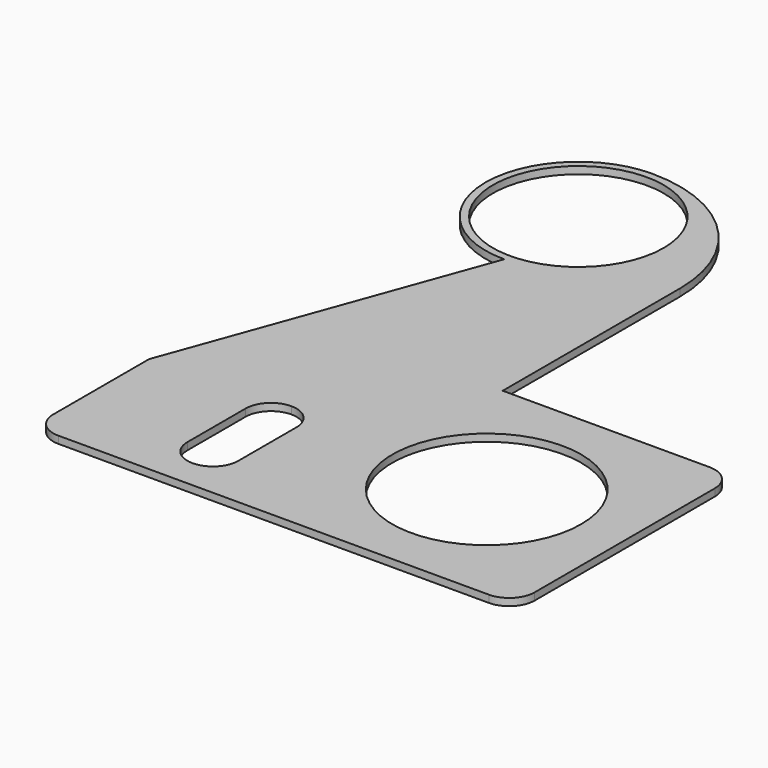
from build123d import *

# Parameters (mm, degrees)
F0_R     = 13
F0_R_2   = 11.75
F1_DEPTH = 1


with BuildPart() as f1:
    # F0 (on Top) → F1 (new body)
    with BuildSketch(Plane.XY):
        with BuildLine():
            ThreePointArc((-7, 66.5), (2.015611, 62.765611), (5.75, 53.75))
            ThreePointArc((5.75, 53.75), (2.015611, 44.734389), (-7, 41))
            Line((-7, 41), (-22.28675, -1))
            Line((-22.28675, -1), (-22.28675, -17.5))
            ThreePointArc((-22.28675, -17.5), (-21.261624, -19.974874), (-18.78675, -21))
            Line((-18.78675, -21), (40.5, -21))
            ThreePointArc((40.5, -21), (42.974874, -19.974874), (44, -17.5))
            Line((44, -17.5), (44, 13.5))
            ThreePointArc((44, 13.5), (42.974874, 15.974874), (40.5, 17))
            Line((40.5, 17), (12, 17))
            Line((12, 17), (12, 47.5))
            ThreePointArc((12, 47.5), (6.435029, 60.935029), (-7, 66.5))
        make_face()
        with BuildLine():
            ThreePointArc((-3.5, 0), (-1.025126, -1.025126), (0, -3.5))
            Line((0, -3.5), (0, -13.5))
            ThreePointArc((0, -13.5), (-1.025126, -15.974874), (-3.5, -17))
            ThreePointArc((-3.5, -17), (-5.974874, -15.974874), (-7, -13.5))
            Line((-7, -13.5), (-7, -3.5))
            ThreePointArc((-7, -3.5), (-5.974874, -1.025126), (-3.5, 0))
        make_face(mode=Mode.SUBTRACT)
        with Locations((25, -2)):
            Circle(F0_R, mode=Mode.SUBTRACT)
        with BuildLine():
            ThreePointArc((-7, 41), (2.015611, 44.734389), (5.75, 53.75))
            ThreePointArc((5.75, 53.75), (2.015611, 62.765611), (-7, 66.5))
            ThreePointArc((-7, 66.5), (-19.75, 53.75), (-7, 41))
        make_face()
        with Locations((-7, 53.75)):
            Circle(F0_R_2, mode=Mode.SUBTRACT)
    extrude(amount=F1_DEPTH)


solid = f1.part
